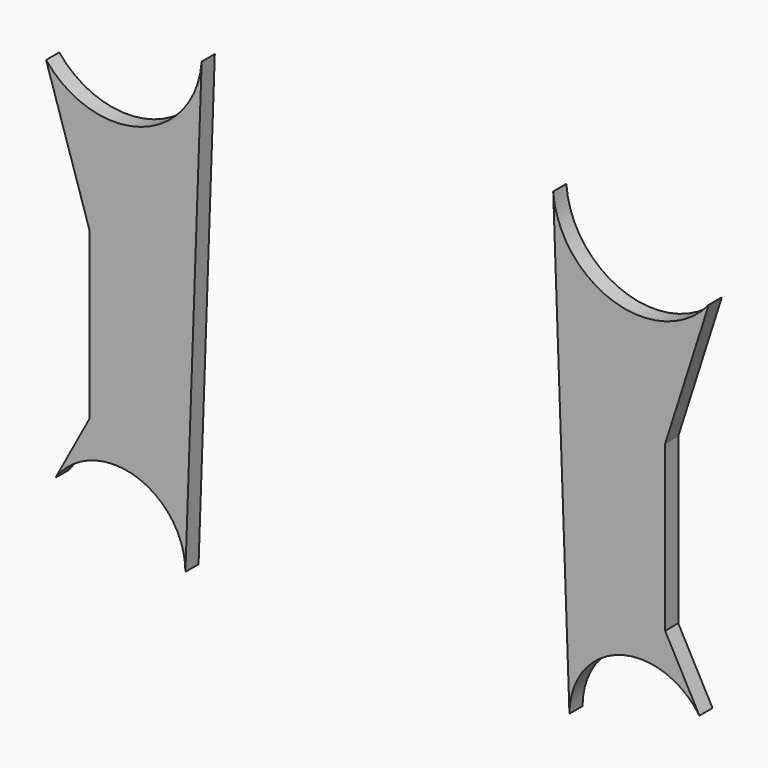
from build123d import *

# Parameters (mm, degrees)
F1_DEPTH = 4.7498


with BuildPart() as f1:
    # F0 (on Front) → F1 (new body)
    with BuildSketch(Plane.XZ):
        with BuildLine():
            ThreePointArc((-50.864713, 80.219096), (-68.544575, 57.812184), (-95.890985, 65.986598))
            Line((-95.890985, 65.986598), (-83.26491, 26.484452))
            Line((-83.26491, 26.484452), (-83.26491, -21.198424))
            Line((-83.26491, -21.198424), (-93.170879, -39.57603))
            ThreePointArc((-93.170879, -39.57603), (-70.048988, -31.6194), (-55.5625, -51.31893))
            Line((-55.5625, -51.31893), (-50.864713, 80.219096))
        make_face()
        with BuildLine():
            Line((83.26491, 26.484452), (95.890985, 65.986598))
            ThreePointArc((95.890985, 65.986598), (68.544575, 57.812184), (50.864713, 80.219096))
            Line((50.864713, 80.219096), (55.5625, -51.31893))
            ThreePointArc((55.5625, -51.31893), (70.048988, -31.6194), (93.170879, -39.57603))
            Line((93.170879, -39.57603), (83.26491, -21.198424))
            Line((83.26491, -21.198424), (83.26491, 26.484452))
        make_face()
    extrude(amount=F1_DEPTH)


solid = f1.part
